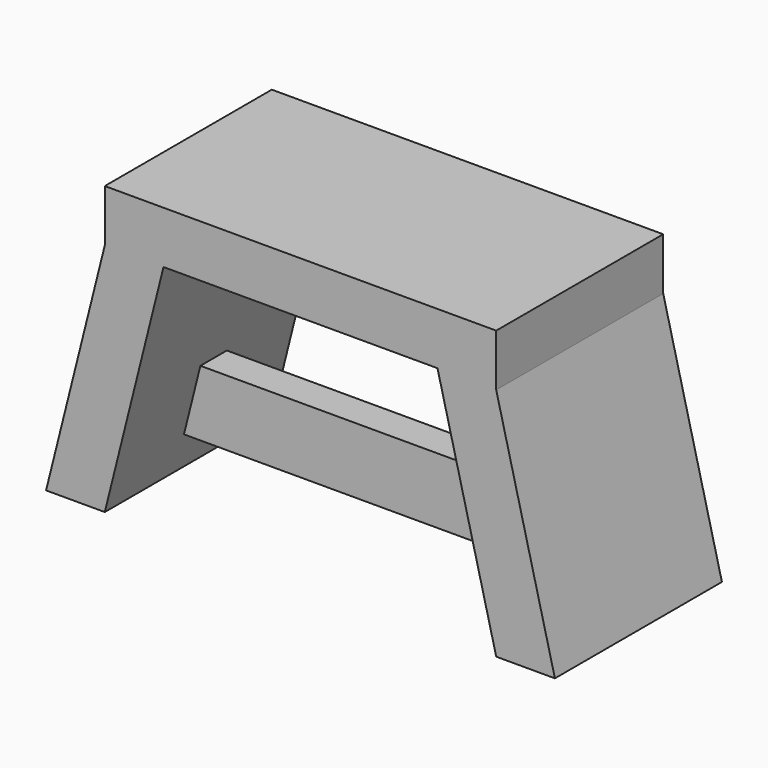
from build123d import *

# Parameters (mm, degrees)
F0_W          = 300
F0_H          = 160
F1_DEPTH      = 40
F4_W          = 45
F4_H          = 160
F3_W          = 45
F3_H          = 160
F7_W          = 25.3585465252
F7_H          = 50.359621644
F8_DEPTH      = 144.1733793765
F8_DEPTH_BACK = 144.1733793765


with BuildPart() as f1:
    # F0 (on Top) → F1 (new body)
    with BuildSketch(Plane.XY):
        Rectangle(F0_W, F0_H)
    extrude(amount=F1_DEPTH)

    # F6: F5 across plane


with BuildPart() as f5:
    # F4 (on face) → F5 section 0
    with BuildSketch(Plane(origin=(0, 0, 0), x_dir=(1, 0, 0), z_dir=(0, 0, -1))):
        with Locations((127.5, 0)):
            Rectangle(F4_W, F4_H)
    # F3 (on offset) → F5 section 1
    with BuildSketch(Plane(origin=(0, 0, -180), x_dir=(1, 0, 0), z_dir=(0, 0, -1))):
        with Locations((172.5, 0)):
            Rectangle(F3_W, F3_H)
    loft()


with BuildPart() as f1_1:
    add(f1.part)
    add(f5.part.mirror(Plane.YZ))


    add(f5.part)  # F8 merges F5
    # F7 (on Right) → F8 (join, two sides)
    with BuildSketch(Plane.YZ) as f8_sk:
        with Locations((0, -127.5137066841)):
            Rectangle(F7_W, F7_H)
    extrude(amount=F8_DEPTH)
    extrude(f8_sk.sketch, amount=-F8_DEPTH_BACK)


solid = f1_1.part
